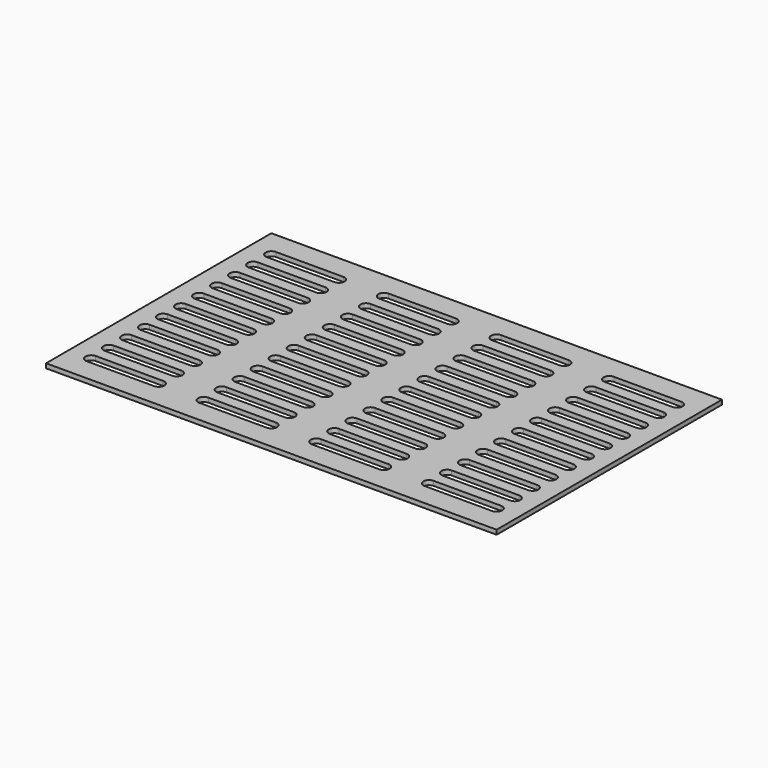
from build123d import *

# Parameters (mm, degrees)
F0_W     = 400
F0_H     = 250
F1_DEPTH = 4
F4_DEPTH = 25


with BuildPart() as f1:
    # F0 (on Top) → F1 (new body)
    with BuildSketch(Plane.XY):
        Rectangle(F0_W, F0_H)
    extrude(amount=F1_DEPTH)

    # F3 (on face) → F4 (cut)
    with BuildSketch(Plane.XY.offset(4)):
        with BuildLine():
            Line((180, 105), (120, 105))
            ThreePointArc((120, 105), (115, 100), (120, 95))
            Line((120, 95), (180, 95))
            ThreePointArc((180, 95), (185, 100), (180, 105))
        make_face()
        with BuildLine():
            Line((180, 85), (120, 85))
            ThreePointArc((120, 85), (115, 80), (120, 75))
            Line((120, 75), (180, 75))
            ThreePointArc((180, 75), (185, 80), (180, 85))
        make_face()
        with BuildLine():
            Line((180, 65), (120, 65))
            ThreePointArc((120, 65), (115, 60), (120, 55))
            Line((120, 55), (180, 55))
            ThreePointArc((180, 55), (185, 60), (180, 65))
        make_face()
        with BuildLine():
            Line((180, 45), (120, 45))
            ThreePointArc((120, 45), (115, 40), (120, 35))
            Line((120, 35), (180, 35))
            ThreePointArc((180, 35), (185, 40), (180, 45))
        make_face()
        with BuildLine():
            Line((180, 25), (120, 25))
            ThreePointArc((120, 25), (115, 20), (120, 15))
            Line((120, 15), (180, 15))
            ThreePointArc((180, 15), (185, 20), (180, 25))
        make_face()
        with BuildLine():
            Line((180, 5), (120, 5))
            ThreePointArc((120, 5), (115, 0), (120, -5))
            Line((120, -5), (180, -5))
            ThreePointArc((180, -5), (185, 0), (180, 5))
        make_face()
        with BuildLine():
            Line((180, -15), (120, -15))
            ThreePointArc((120, -15), (115, -20), (120, -25))
            Line((120, -25), (180, -25))
            ThreePointArc((180, -25), (185, -20), (180, -15))
        make_face()
        with BuildLine():
            Line((180, -35), (120, -35))
            ThreePointArc((120, -35), (115, -40), (120, -45))
            Line((120, -45), (180, -45))
            ThreePointArc((180, -45), (185, -40), (180, -35))
        make_face()
        with BuildLine():
            Line((180, -55), (120, -55))
            ThreePointArc((120, -55), (115, -60), (120, -65))
            Line((120, -65), (180, -65))
            ThreePointArc((180, -65), (185, -60), (180, -55))
        make_face()
        with BuildLine():
            Line((80, 105), (20, 105))
            ThreePointArc((20, 105), (15, 100), (20, 95))
            Line((20, 95), (80, 95))
            ThreePointArc((80, 95), (85, 100), (80, 105))
        make_face()
        with BuildLine():
            Line((80, 85), (20, 85))
            ThreePointArc((20, 85), (15, 80), (20, 75))
            Line((20, 75), (80, 75))
            ThreePointArc((80, 75), (85, 80), (80, 85))
        make_face()
        with BuildLine():
            Line((80, 65), (20, 65))
            ThreePointArc((20, 65), (15, 60), (20, 55))
            Line((20, 55), (80, 55))
            ThreePointArc((80, 55), (85, 60), (80, 65))
        make_face()
        with BuildLine():
            Line((80, 45), (20, 45))
            ThreePointArc((20, 45), (15, 40), (20, 35))
            Line((20, 35), (80, 35))
            ThreePointArc((80, 35), (85, 40), (80, 45))
        make_face()
        with BuildLine():
            Line((80, 25), (20, 25))
            ThreePointArc((20, 25), (15, 20), (20, 15))
            Line((20, 15), (80, 15))
            ThreePointArc((80, 15), (85, 20), (80, 25))
        make_face()
        with BuildLine():
            Line((80, 5), (20, 5))
            ThreePointArc((20, 5), (15, 0), (20, -5))
            Line((20, -5), (80, -5))
            ThreePointArc((80, -5), (85, 0), (80, 5))
        make_face()
        with BuildLine():
            Line((80, -15), (20, -15))
            ThreePointArc((20, -15), (15, -20), (20, -25))
            Line((20, -25), (80, -25))
            ThreePointArc((80, -25), (85, -20), (80, -15))
        make_face()
        with BuildLine():
            Line((80, -35), (20, -35))
            ThreePointArc((20, -35), (15, -40), (20, -45))
            Line((20, -45), (80, -45))
            ThreePointArc((80, -45), (85, -40), (80, -35))
        make_face()
        with BuildLine():
            Line((80, -55), (20, -55))
            ThreePointArc((20, -55), (15, -60), (20, -65))
            Line((20, -65), (80, -65))
            ThreePointArc((80, -65), (85, -60), (80, -55))
        make_face()
        with BuildLine():
            Line((-20, 105), (-80, 105))
            ThreePointArc((-80, 105), (-85, 100), (-80, 95))
            Line((-80, 95), (-20, 95))
            ThreePointArc((-20, 95), (-15, 100), (-20, 105))
        make_face()
        with BuildLine():
            Line((-20, 85), (-80, 85))
            ThreePointArc((-80, 85), (-85, 80), (-80, 75))
            Line((-80, 75), (-20, 75))
            ThreePointArc((-20, 75), (-15, 80), (-20, 85))
        make_face()
        with BuildLine():
            Line((-20, 65), (-80, 65))
            ThreePointArc((-80, 65), (-85, 60), (-80, 55))
            Line((-80, 55), (-20, 55))
            ThreePointArc((-20, 55), (-15, 60), (-20, 65))
        make_face()
        with BuildLine():
            Line((-20, 45), (-80, 45))
            ThreePointArc((-80, 45), (-85, 40), (-80, 35))
            Line((-80, 35), (-20, 35))
            ThreePointArc((-20, 35), (-15, 40), (-20, 45))
        make_face()
        with BuildLine():
            Line((-20, 25), (-80, 25))
            ThreePointArc((-80, 25), (-85, 20), (-80, 15))
            Line((-80, 15), (-20, 15))
            ThreePointArc((-20, 15), (-15, 20), (-20, 25))
        make_face()
        with BuildLine():
            Line((-20, 5), (-80, 5))
            ThreePointArc((-80, 5), (-85, 0), (-80, -5))
            Line((-80, -5), (-20, -5))
            ThreePointArc((-20, -5), (-15, 0), (-20, 5))
        make_face()
        with BuildLine():
            Line((-20, -15), (-80, -15))
            ThreePointArc((-80, -15), (-85, -20), (-80, -25))
            Line((-80, -25), (-20, -25))
            ThreePointArc((-20, -25), (-15, -20), (-20, -15))
        make_face()
        with BuildLine():
            Line((-20, -35), (-80, -35))
            ThreePointArc((-80, -35), (-85, -40), (-80, -45))
            Line((-80, -45), (-20, -45))
            ThreePointArc((-20, -45), (-15, -40), (-20, -35))
        make_face()
        with BuildLine():
            Line((-20, -55), (-80, -55))
            ThreePointArc((-80, -55), (-85, -60), (-80, -65))
            Line((-80, -65), (-20, -65))
            ThreePointArc((-20, -65), (-15, -60), (-20, -55))
        make_face()
        with BuildLine():
            Line((-120, 105), (-180, 105))
            ThreePointArc((-180, 105), (-185, 100), (-180, 95))
            Line((-180, 95), (-120, 95))
            ThreePointArc((-120, 95), (-115, 100), (-120, 105))
        make_face()
        with BuildLine():
            Line((-120, 85), (-180, 85))
            ThreePointArc((-180, 85), (-185, 80), (-180, 75))
            Line((-180, 75), (-120, 75))
            ThreePointArc((-120, 75), (-115, 80), (-120, 85))
        make_face()
        with BuildLine():
            Line((-120, 65), (-180, 65))
            ThreePointArc((-180, 65), (-185, 60), (-180, 55))
            Line((-180, 55), (-120, 55))
            ThreePointArc((-120, 55), (-115, 60), (-120, 65))
        make_face()
        with BuildLine():
            Line((-120, 45), (-180, 45))
            ThreePointArc((-180, 45), (-185, 40), (-180, 35))
            Line((-180, 35), (-120, 35))
            ThreePointArc((-120, 35), (-115, 40), (-120, 45))
        make_face()
        with BuildLine():
            Line((-120, 25), (-180, 25))
            ThreePointArc((-180, 25), (-185, 20), (-180, 15))
            Line((-180, 15), (-120, 15))
            ThreePointArc((-120, 15), (-115, 20), (-120, 25))
        make_face()
        with BuildLine():
            Line((-120, 5), (-180, 5))
            ThreePointArc((-180, 5), (-185, 0), (-180, -5))
            Line((-180, -5), (-120, -5))
            ThreePointArc((-120, -5), (-115, 0), (-120, 5))
        make_face()
        with BuildLine():
            Line((-120, -15), (-180, -15))
            ThreePointArc((-180, -15), (-185, -20), (-180, -25))
            Line((-180, -25), (-120, -25))
            ThreePointArc((-120, -25), (-115, -20), (-120, -15))
        make_face()
        with BuildLine():
            Line((-120, -35), (-180, -35))
            ThreePointArc((-180, -35), (-185, -40), (-180, -45))
            Line((-180, -45), (-120, -45))
            ThreePointArc((-120, -45), (-115, -40), (-120, -35))
        make_face()
        with BuildLine():
            Line((-120, -55), (-180, -55))
            ThreePointArc((-180, -55), (-185, -60), (-180, -65))
            Line((-180, -65), (-120, -65))
            ThreePointArc((-120, -65), (-115, -60), (-120, -55))
        make_face()
        with BuildLine():
            Line((180, -75), (120, -75))
            ThreePointArc((120, -75), (115, -80), (120, -85))
            Line((120, -85), (180, -85))
            ThreePointArc((180, -85), (185, -80), (180, -75))
        make_face()
        with BuildLine():
            Line((180, -95), (120, -95))
            ThreePointArc((120, -95), (115, -100), (120, -105))
            Line((120, -105), (180, -105))
            ThreePointArc((180, -105), (185, -100), (180, -95))
        make_face()
        with BuildLine():
            Line((80, -75), (20, -75))
            ThreePointArc((20, -75), (15, -80), (20, -85))
            Line((20, -85), (80, -85))
            ThreePointArc((80, -85), (85, -80), (80, -75))
        make_face()
        with BuildLine():
            Line((80, -95), (20, -95))
            ThreePointArc((20, -95), (15, -100), (20, -105))
            Line((20, -105), (80, -105))
            ThreePointArc((80, -105), (85, -100), (80, -95))
        make_face()
        with BuildLine():
            Line((-20, -75), (-80, -75))
            ThreePointArc((-80, -75), (-85, -80), (-80, -85))
            Line((-80, -85), (-20, -85))
            ThreePointArc((-20, -85), (-15, -80), (-20, -75))
        make_face()
        with BuildLine():
            Line((-20, -95), (-80, -95))
            ThreePointArc((-80, -95), (-85, -100), (-80, -105))
            Line((-80, -105), (-20, -105))
            ThreePointArc((-20, -105), (-15, -100), (-20, -95))
        make_face()
        with BuildLine():
            Line((-120, -75), (-180, -75))
            ThreePointArc((-180, -75), (-185, -80), (-180, -85))
            Line((-180, -85), (-120, -85))
            ThreePointArc((-120, -85), (-115, -80), (-120, -75))
        make_face()
        with BuildLine():
            Line((-120, -95), (-180, -95))
            ThreePointArc((-180, -95), (-185, -100), (-180, -105))
            Line((-180, -105), (-120, -105))
            ThreePointArc((-120, -105), (-115, -100), (-120, -95))
        make_face()
    extrude(amount=-F4_DEPTH, mode=Mode.SUBTRACT)


solid = f1.part
